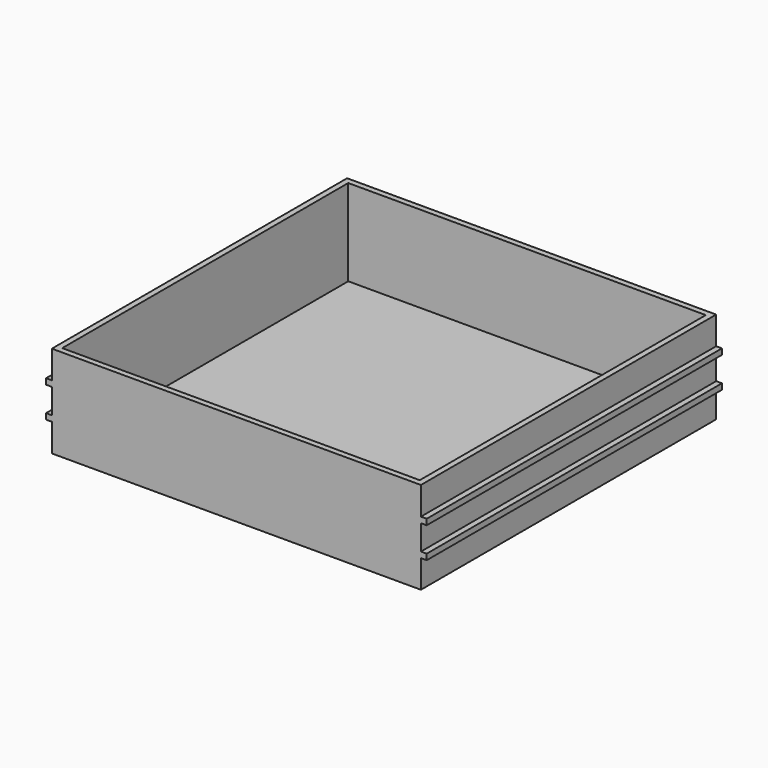
from build123d import *

# Parameters (mm, degrees)
F0_W     = 203.2
F0_H     = 203.2
F0_W_2   = 196.85
F0_H_2   = 196.85
F1_DEPTH = 50.8
F2_DEPTH = 3.175
F3_W     = 203.2
F3_H     = 1.5875
F5_DEPTH = 3.175
F4_W     = 203.2
F4_H     = 1.5875
F6_DEPTH = 3.175


with BuildPart() as f1:
    # F0 (on Top) → F1 (new body)
    with BuildSketch(Plane.XY):
        Rectangle(F0_W, F0_H)
        Rectangle(F0_W_2, F0_H_2, mode=Mode.SUBTRACT)
    extrude(amount=F1_DEPTH)

    # F0 (on Top) → F2 (join)
    with BuildSketch(Plane.XY):
        Rectangle(F0_W_2, F0_H_2)
    extrude(amount=F2_DEPTH)

    # F3 (on face) → F5 (join)
    with BuildSketch(Plane(origin=(-101.6, 0, 0), x_dir=(0, -1, 0), z_dir=(-1, 0, 0))):
        with Locations((0, 34.660417)):
            Rectangle(F3_W, F3_H)
        with Locations((0, 33.072917)):
            Rectangle(F3_W, F3_H)
        with Locations((0, 17.727083)):
            Rectangle(F3_W, F3_H)
        with Locations((0, 16.139583)):
            Rectangle(F3_W, F3_H)
    extrude(amount=F5_DEPTH)

    # F4 (on face) → F6 (join)
    with BuildSketch(Plane.YZ.offset(101.6)):
        with Locations((0, 34.660417)):
            Rectangle(F4_W, F4_H)
        with Locations((0, 33.072917)):
            Rectangle(F4_W, F4_H)
        with Locations((0, 17.727083)):
            Rectangle(F4_W, F4_H)
        with Locations((0, 16.139583)):
            Rectangle(F4_W, F4_H)
    extrude(amount=F6_DEPTH)


solid = f1.part
